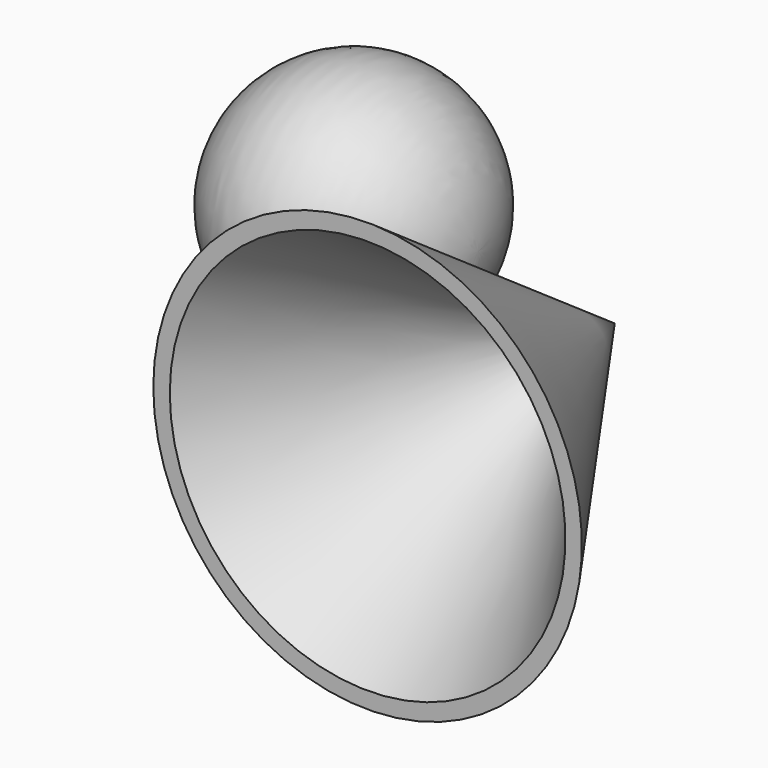
from build123d import *

# Parameters (mm, degrees)
F4_T = -2.54


with BuildPart() as f1:
    # F0 (on Top) → F1 (revolve)
    with BuildSketch(Plane.XY):
        with BuildLine():
            ThreePointArc((0, 27.752547), (-23.323949, 51.076496), (-46.647899, 27.752547))
            Line((-46.647899, 27.752547), (0, 27.752547))
        make_face()
    revolve(axis=Axis((-23.323949, 27.752547, 0), (1, 0, 0)))


with BuildPart() as f3:
    # F2 (on Top) → F3 (revolve)
    with BuildSketch(Plane.XY):
        Polygon((29.819222, -35.428781), (29.819222, 22.438228), (-10.333395, -35.428781), align=None)
    revolve(axis=Axis((29.819222, -6.495276, 0), (0, -1, 0)))

    # F4
    f4_openings = [f3.faces().sort_by_distance(p)[0] for p in [
        (29.819222, -35.428781, 0),
    ]]
    offset(amount=F4_T, openings=f4_openings)


solid = Compound([f1.part, f3.part])
